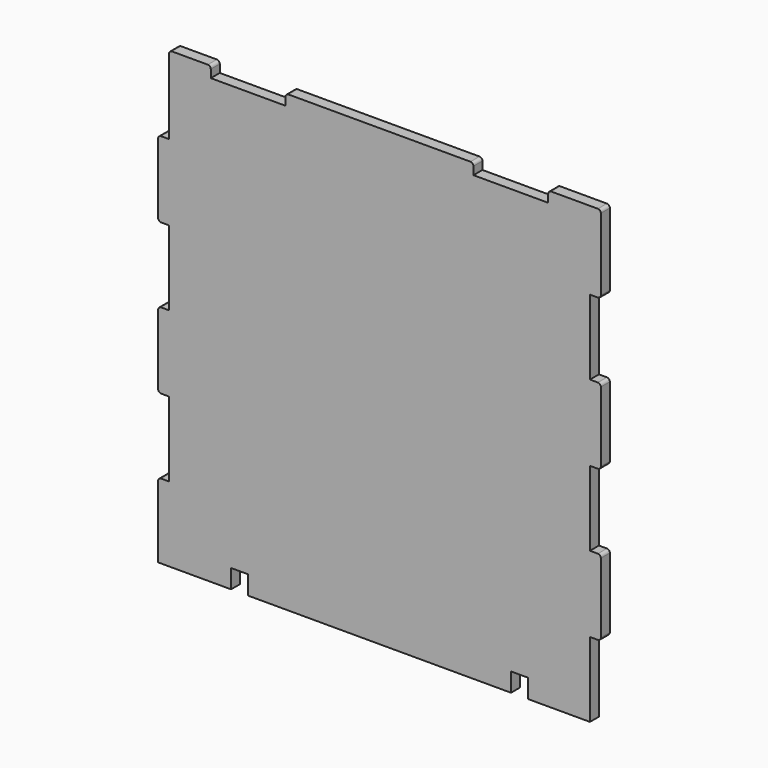
from build123d import *

# Parameters (mm, degrees)
F1_DEPTH = 3
F2_R     = 0.8
F3_W     = 4.5
F3_H     = 5
F4_DEPTH = 3.001


with BuildPart() as f1:
    # F0 (on Front) → F1 (new body)
    with BuildSketch(Plane.XZ):
        Polygon((-58.9, 0), (56, 0), (56, 19.9), (58.9, 19.9), (58.9, 40.1), (56, 40.1), (56, 60), (58.9, 60), (58.9, 80.2), (56, 80.2), (56, 100.1), (58.9, 100.1), (58.9, 120.9), (44.9, 120.9), (44.9, 118), (25, 118), (25, 120.9), (-25, 120.9), (-25, 118), (-44.9, 118), (-44.9, 120.9), (-56, 120.9), (-56, 100.1), (-58.9, 100.1), (-58.9, 79.9), (-56, 79.9), (-56, 60), (-58.9, 60), (-58.9, 39.8), (-56, 39.8), (-56, 19.9), (-58.9, 19.9), align=None)
    extrude(amount=F1_DEPTH)

    # F2
    f2_edges = [f1.edges().sort_by_distance(p)[0] for p in [
        (58.9, -1.5, 100.1),
        (58.9, -1.5, 80.2),
        (58.9, -1.5, 60),
        (58.9, -1.5, 40.1),
        (58.9, -1.5, 19.9),
        (-58.9, -1.5, 19.9),
        (-58.9, -1.5, 39.8),
        (-58.9, -1.5, 60),
        (-58.9, -1.5, 79.9),
        (-58.9, -1.5, 100.1),
        (-56, -1.5, 120.9),
        (-44.9, -1.5, 120.9),
        (-25, -1.5, 120.9),
        (25, -1.5, 120.9),
        (44.9, -1.5, 120.9),
        (58.9, -1.5, 120.9),
    ]]
    fillet(f2_edges, radius=F2_R)

    # F3 (on face) → F4 (cut, through all)
    with BuildSketch(Plane.XZ.offset(3)):
        with Locations((-37.25, 2.5)):
            Rectangle(F3_W, F3_H)
        with Locations((37.25, 2.5)):
            Rectangle(F3_W, F3_H)
    extrude(amount=-F4_DEPTH, mode=Mode.SUBTRACT)


solid = f1.part
